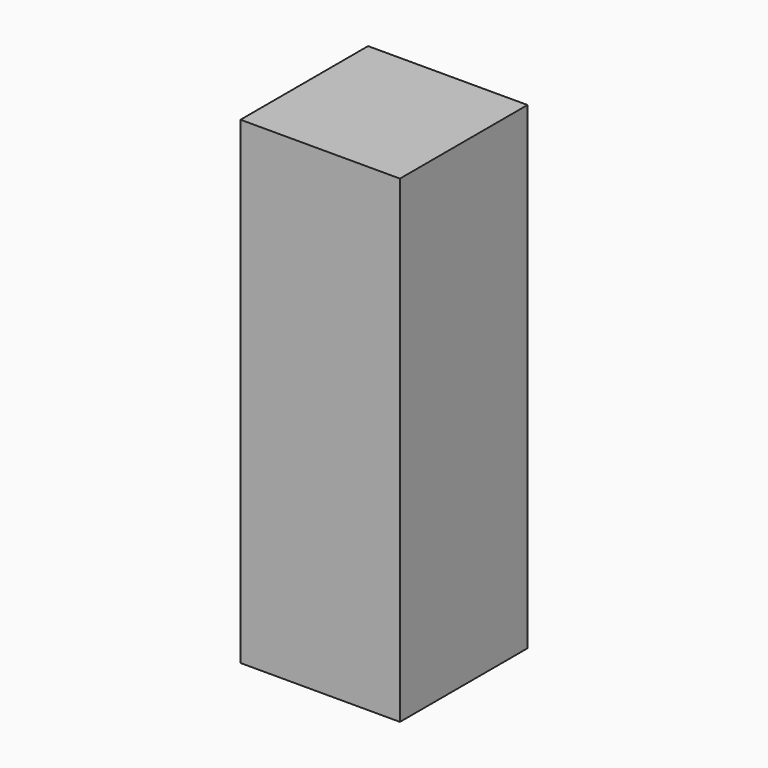
from build123d import *

# Parameters (mm, degrees)
F0_W     = 20
F0_H     = 20
F0_W_2   = 19.2
F0_H_2   = 19.2
F1_DEPTH = 60


with BuildPart() as f1:
    # F0 (on Top) → F1 (new body)
    with BuildSketch(Plane.XY):
        Rectangle(F0_W, F0_H)
        Rectangle(F0_W_2, F0_H_2, mode=Mode.SUBTRACT)
        Rectangle(F0_W_2, F0_H_2)
    extrude(amount=F1_DEPTH)


solid = f1.part
